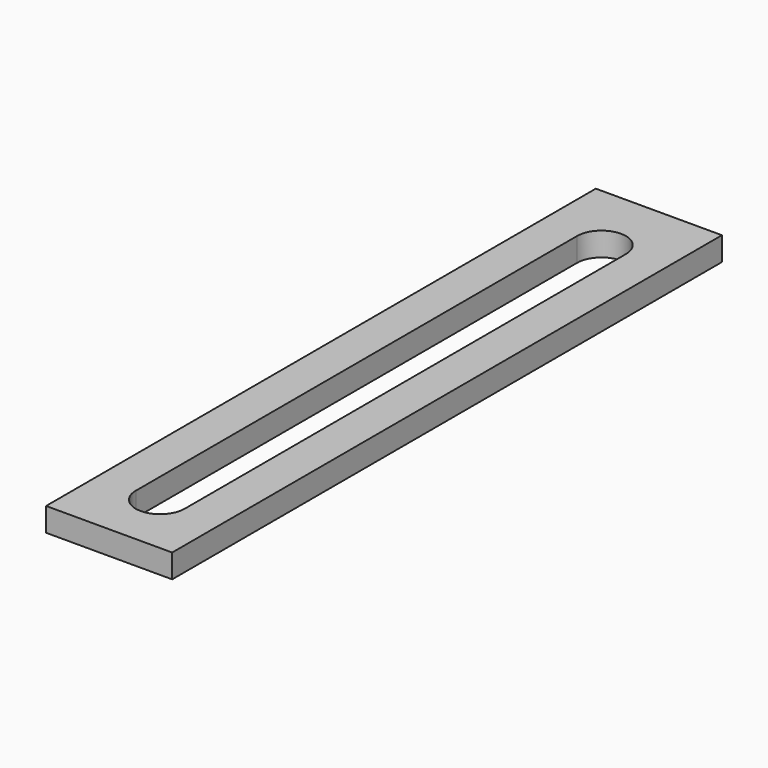
from build123d import *

# Parameters (mm, degrees)
F0_R     = 1
F0_R_2   = 2
F0_R_3   = 6.25
F1_DEPTH = 1.5
F2_R     = 1
F2_R_2   = 2
F2_R_3   = 6.25
F2_W     = 9
F2_H     = 43.6
F3_DEPTH = 1.5


with BuildPart() as f1:
    # F0 (on Top) → F1 (new body)
    with BuildSketch(Plane.XY):
        with BuildLine():
            Line((13, 39.025), (-13, 39.025))
            Line((-13, 39.025), (-13, -39.025))
            Line((-13, -39.025), (-6.25, -39.025))
            Line((-6.25, -39.025), (-6.25, -36.525))
            ThreePointArc((-6.25, -36.525), (0, -30.275), (6.25, -36.525))
            Line((6.25, -36.525), (6.25, -39.025))
            Line((6.25, -39.025), (13, -39.025))
            Line((13, -39.025), (13, 39.025))
        make_face()
        with Locations((-10.5, -36.525)):
            Circle(F0_R, mode=Mode.SUBTRACT)
        with Locations((-10.5, -15.525)):
            Circle(F0_R, mode=Mode.SUBTRACT)
        with Locations((0, -26.025)):
            Circle(F0_R_2, mode=Mode.SUBTRACT)
        with Locations((10.5, -36.525)):
            Circle(F0_R, mode=Mode.SUBTRACT)
        with Locations((0, -15.525)):
            Circle(F0_R_3, mode=Mode.SUBTRACT)
        with Locations((10.5, -15.525)):
            Circle(F0_R, mode=Mode.SUBTRACT)
        with BuildLine():
            Line((-1.55, -0.525), (-1.55, 34.475))
            ThreePointArc((-1.55, 34.475), (0, 36.025), (1.55, 34.475))
            Line((1.55, 34.475), (1.55, -0.525))
            ThreePointArc((1.55, -0.525), (0, -2.075), (-1.55, -0.525))
        make_face(mode=Mode.SUBTRACT)
    extrude(amount=F1_DEPTH)

    # F2 (on face) → F3 (cut, through all)
    with BuildSketch(Plane.XY.offset(1.5)):
        with BuildLine():
            Line((-13, -4.575), (-13, -39.025))
            Line((-13, -39.025), (-6.25, -39.025))
            Line((-6.25, -39.025), (-6.25, -36.525))
            ThreePointArc((-6.25, -36.525), (0, -30.275), (6.25, -36.525))
            Line((6.25, -36.525), (6.25, -39.025))
            Line((6.25, -39.025), (13, -39.025))
            Line((13, -39.025), (13, -4.575))
            Line((13, -4.575), (4, -4.575))
            Line((4, -4.575), (-4, -4.575))
            Line((-4, -4.575), (-13, -4.575))
        make_face()
        with Locations((-10.5, -36.525)):
            Circle(F2_R, mode=Mode.SUBTRACT)
        with Locations((-10.5, -15.525)):
            Circle(F2_R, mode=Mode.SUBTRACT)
        with Locations((0, -26.025)):
            Circle(F2_R_2, mode=Mode.SUBTRACT)
        with Locations((10.5, -36.525)):
            Circle(F2_R, mode=Mode.SUBTRACT)
        with Locations((0, -15.525)):
            Circle(F2_R_3, mode=Mode.SUBTRACT)
        with Locations((10.5, -15.525)):
            Circle(F2_R, mode=Mode.SUBTRACT)
        with Locations((-8.5, 17.225)):
            Rectangle(F2_W, F2_H)
        with Locations((8.5, 17.225)):
            Rectangle(F2_W, F2_H)
    extrude(amount=-F3_DEPTH, mode=Mode.SUBTRACT)


solid = f1.part
